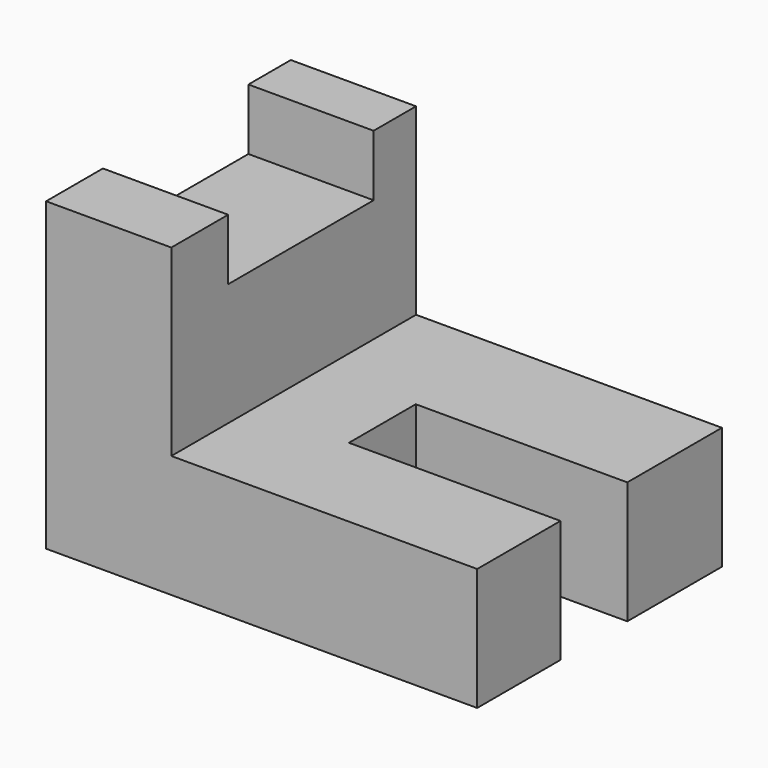
from build123d import *

# Parameters (mm, degrees)
F1_DEPTH = 127
F2_W     = 51.9999986213
F2_H     = 75.4991620779
F3_DEPTH = 25.4
F4_W     = 87.8321913701
F4_H     = 34.6736311913
F5_DEPTH = 77.47


with BuildPart() as f1:
    # F0 (on Front) → F1 (new body)
    with BuildSketch(Plane.XZ):
        Polygon((-75.0000013787, 76.2), (-127, 76.2), (-127, -50.8), (51.9999986213, -50.8), (51.9999986213, 0), (-75.0000013787, 0), align=None)
    extrude(amount=F1_DEPTH)

    # F2 (on face) → F3 (cut)
    with BuildSketch(Plane.XY.offset(76.2)):
        with Locations((-101.0000006893, -59.7584694624)):
            Rectangle(F2_W, F2_H)
    extrude(amount=-F3_DEPTH, mode=Mode.SUBTRACT)

    # F4 (on face) → F5 (cut)
    with BuildSketch(Plane.XY):
        with Locations((8.0839029363, -66.4408057928)):
            Rectangle(F4_W, F4_H)
    extrude(amount=-F5_DEPTH, mode=Mode.SUBTRACT)


solid = f1.part
